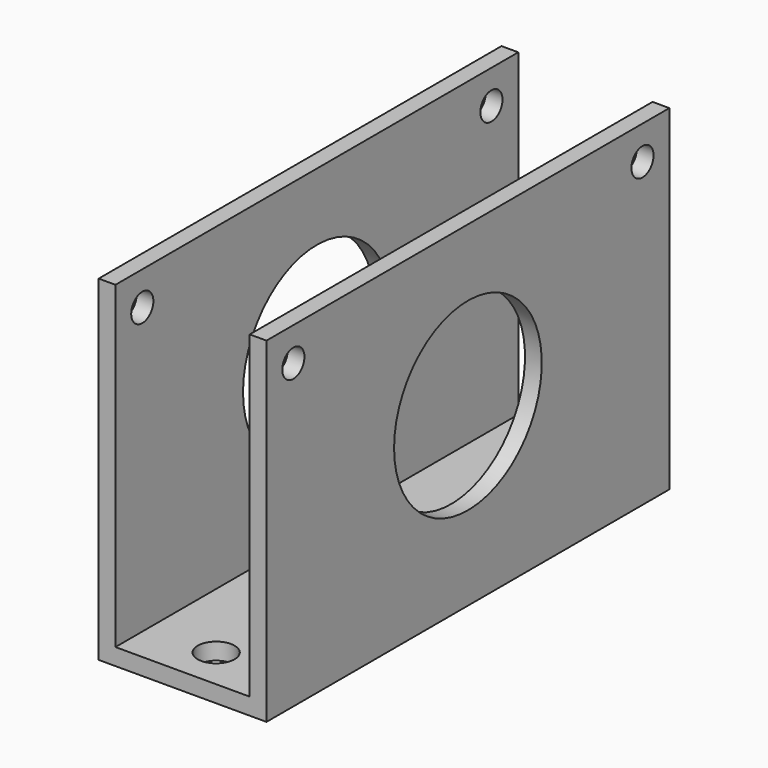
from build123d import *

# Parameters (mm, degrees)
F1_DEPTH = 30
F2_R     = 11
F3_DEPTH = 20
F5_D     = 4.4
F6_D     = 3.3


with BuildPart() as f1:
    # F0 (on Front) → F1 (new body, symmetric)
    with BuildSketch(Plane.XZ):
        Polygon((-8, 40), (-10, 40), (-10, 0), (0, 0), (10, 0), (10, 40), (8, 40), (8, 2), (0, 2), (-8, 2), align=None)
    extrude(amount=F1_DEPTH, both=True)

    # F2 (on face) → F3 (cut, through all)
    with BuildSketch(Plane(origin=(-10, 0, 0), x_dir=(0, -1, 0), z_dir=(-1, 0, 0))):
        with Locations((0, 21)):
            Circle(F2_R)
    extrude(amount=-F3_DEPTH, mode=Mode.SUBTRACT)

    # F5 (through all)
    with Locations(Plane.XY.offset(2)):
        with Locations((0, 25), (0, -25)):
            Hole(F5_D / 2)

    # F6 (through all)
    with Locations(Plane(origin=(-10, 0, 0), x_dir=(0, -1, 0), z_dir=(-1, 0, 0))):
        with Locations((-26, 36), (26, 36)):
            Hole(F6_D / 2)


solid = f1.part
